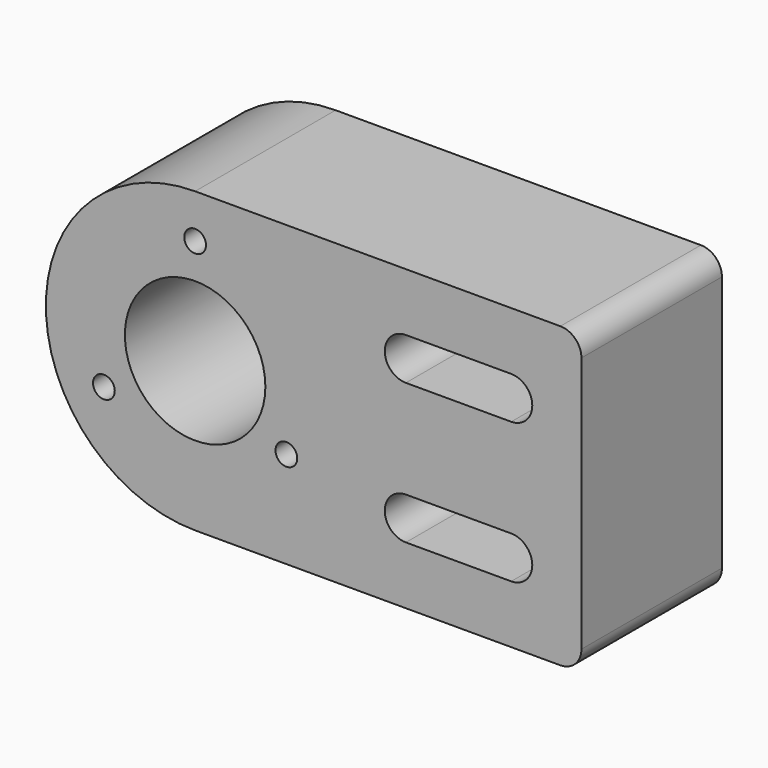
from build123d import *

# Parameters (mm, degrees)
F0_R     = 1.55
F0_R_2   = 10
F1_DEPTH = 25


with BuildPart() as f1:
    # F0 (on Front) → F1 (new body)
    with BuildSketch(Plane.XZ):
        with BuildLine():
            Line((52, 21.25), (0, 21.25))
            ThreePointArc((0, 21.25), (15.026019, 15.026019), (21.25, 0))
            ThreePointArc((21.25, 0), (15.026019, -15.026019), (0, -21.25))
            Line((0, -21.25), (52, -21.25))
            ThreePointArc((52, -21.25), (54.12132, -20.37132), (55, -18.25))
            Line((55, -18.25), (55, 18.25))
            ThreePointArc((55, 18.25), (54.12132, 20.37132), (52, 21.25))
        make_face()
        with BuildLine():
            Line((45, -13), (30, -13))
            ThreePointArc((30, -13), (27, -10), (30, -7))
            Line((30, -7), (45, -7))
            ThreePointArc((45, -7), (48, -10), (45, -13))
        make_face(mode=Mode.SUBTRACT)
        with BuildLine():
            Line((45, 7), (30, 7))
            ThreePointArc((30, 7), (27, 10), (30, 13))
            Line((30, 13), (45, 13))
            ThreePointArc((45, 13), (48, 10), (45, 7))
        make_face(mode=Mode.SUBTRACT)
        with BuildLine():
            ThreePointArc((21.25, 0), (15.026019, 15.026019), (0, 21.25))
            ThreePointArc((0, 21.25), (-21.25, 0), (0, -21.25))
            ThreePointArc((0, -21.25), (15.026019, -15.026019), (21.25, 0))
        make_face()
        with Locations((-12.990381, -7.5)):
            Circle(F0_R, mode=Mode.SUBTRACT)
        with Locations((12.990381, -7.5)):
            Circle(F0_R, mode=Mode.SUBTRACT)
        Circle(F0_R_2, mode=Mode.SUBTRACT)
        with Locations((0, 15)):
            Circle(F0_R, mode=Mode.SUBTRACT)
    extrude(amount=F1_DEPTH)


solid = f1.part
